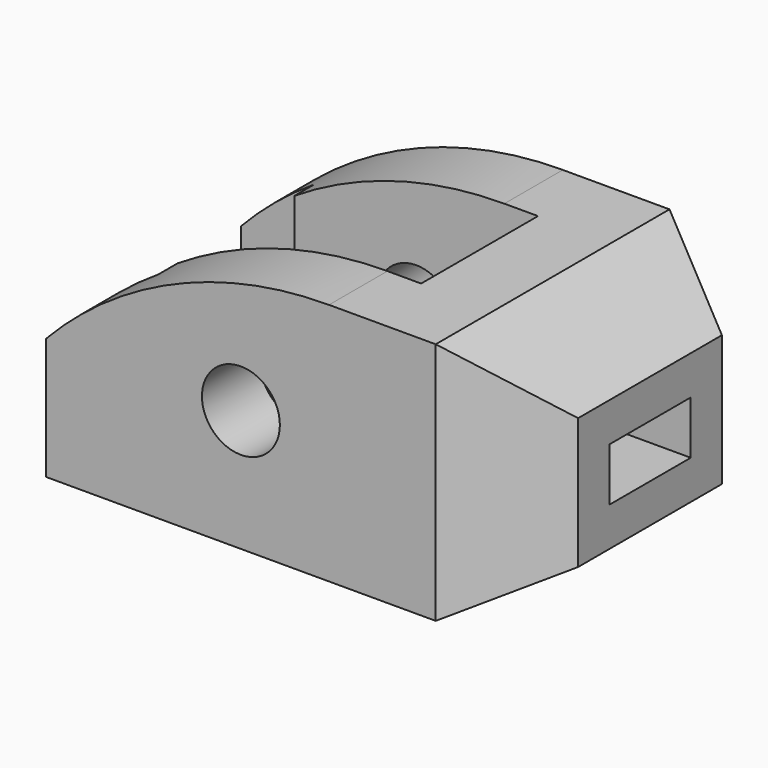
from build123d import *

# Parameters (mm, degrees)
F0_R     = 8
F1_DEPTH = 60
F2_W     = 6.90525
F2_H     = 30
F3_DEPTH = 50.001
F4_W     = 20.90599
F4_H     = 10.90599
F5_DEPTH = 100.001


with BuildPart() as f1:
    # F0 (on Front) → F1 (new body)
    with BuildSketch(Plane.XZ):
        with BuildLine():
            Line((-80, 0), (0, 0))
            Line((0, 0), (0, 50))
            Line((0, 50), (-21.90525, 50))
            ThreePointArc((-21.90525, 50), (-53.528026, 43.484692), (-80, 25))
            Line((-80, 25), (-80, 0))
        make_face()
        with Locations((-40, 25)):
            Circle(F0_R, mode=Mode.SUBTRACT)
        Polygon((0, 50), (0, 0), (20, 11.547005), (20, 38.452995), align=None)
    extrude(amount=F1_DEPTH)

    # F2 (on face) → F3 (cut, through all)
    with BuildSketch(Plane.XY.offset(50)):
        Polygon((-65, -10), (-80, -10), (-80, -50), (-65, -50), (-65, -45), (-21.90525, -45), (-21.90525, -15), (-65, -15), align=None)
        with Locations((-18.452625, -30)):
            Rectangle(F2_W, F2_H)
        Polygon((20, 0), (0, 0), (20, -11.547005), align=None)
        Polygon((20, -48.452995), (0, -60), (20, -60), align=None)
    extrude(amount=-F3_DEPTH, mode=Mode.SUBTRACT)

    # F4 (on face) → F5 (cut, through all)
    with BuildSketch(Plane.YZ.offset(20)):
        with Locations((-30, 25)):
            Rectangle(F4_W, F4_H)
    extrude(amount=-F5_DEPTH, mode=Mode.SUBTRACT)


solid = f1.part
